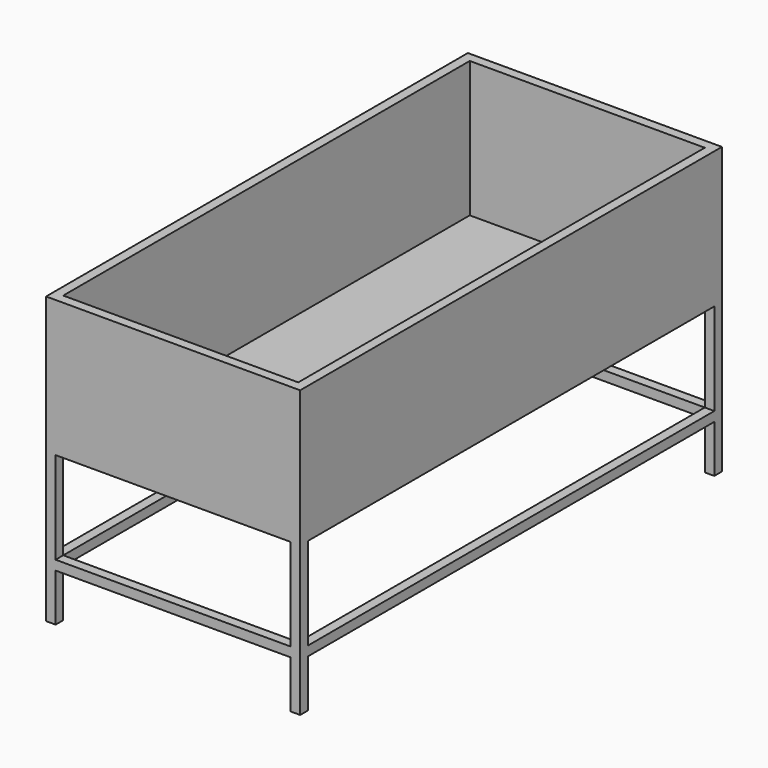
from build123d import *

# Parameters (mm, degrees)
F0_W     = 1600
F0_H     = 290
F1_DEPTH = 800
F3_DEPTH = 500.001
F4_W     = 740
F4_H     = 150
F4_H_2   = 290
F5_DEPTH = 1660.001
F6_W     = 800
F6_H     = 1660
F6_W_2   = 740
F6_H_2   = 1600
F7_DEPTH = 400
F8_W     = 770
F8_H     = 1660
F9_DEPTH = 2


with BuildPart() as f1:
    # F0 (on Right) → F1 (new body)
    with BuildSketch(Plane.YZ):
        Polygon((0, 500), (0, 0), (30, 0), (30, 150), (1630, 150), (1630, 0), (1660, 0), (1660, 500), align=None)
        with Locations((830, 325)):
            Rectangle(F0_W, F0_H, mode=Mode.SUBTRACT)
    extrude(amount=F1_DEPTH)

    # F2 (on face) → F3 (cut, through all)
    with BuildSketch(Plane.XY.offset(500)):
        Polygon((30, 30), (770, 30), (770, 1630), (385, 1630), (30, 1630), align=None)
    extrude(amount=-F3_DEPTH, mode=Mode.SUBTRACT)

    # F4 (on face) → F5 (cut, through all)
    with BuildSketch(Plane(origin=(0, 1660, 0), x_dir=(-1, 0, 0), z_dir=(0, 1, 0))):
        with Locations((-400, 75)):
            Rectangle(F4_W, F4_H)
        with Locations((-400, 325)):
            Rectangle(F4_W, F4_H_2)
    extrude(amount=-F5_DEPTH, mode=Mode.SUBTRACT)

    # F6 (on face) → F7 (join)
    with BuildSketch(Plane.XY.offset(500)):
        with Locations((400, 830)):
            Rectangle(F6_W, F6_H)
        with Locations((400, 830)):
            Rectangle(F6_W_2, F6_H_2, mode=Mode.SUBTRACT)
    extrude(amount=F7_DEPTH)

    # F8 (on face) → F9 (join)
    with BuildSketch(Plane(origin=(0, 0, 470), x_dir=(1, 0, 0), z_dir=(0, 0, -1))):
        with Locations((385, -830)):
            Rectangle(F8_W, F8_H)
    extrude(amount=-F9_DEPTH)


solid = f1.part
